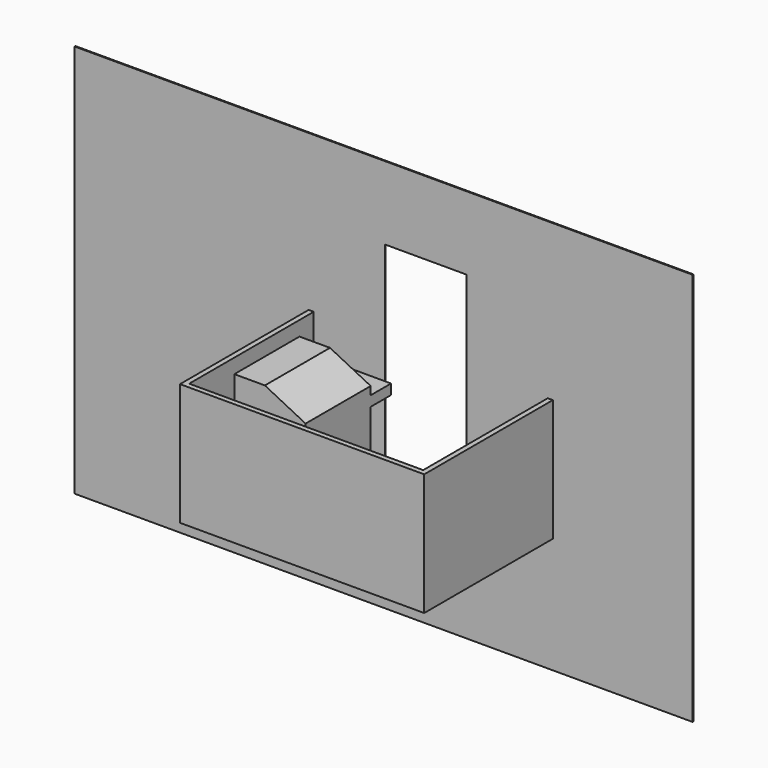
from build123d import *

# Parameters (mm, degrees)
F0_W      = 230
F0_H      = 153
F1_DEPTH  = 1
F3_DEPTH  = 120
F4_W      = 607.133641839
F4_H      = 386.898599565
F5_DEPTH  = 1
F6_W      = 41
F6_H      = 71
F7_DEPTH  = 45
F8_W      = 70
F8_H      = 80
F9_DEPTH  = 113
F11_W     = 70
F11_H     = 10
F12_DEPTH = 65
F13_SIZE2 = 20
F13_SIZE  = 40


with BuildPart() as f1:
    # F0 (on Top) → F1 (new body)
    with BuildSketch(Plane.XY):
        with Locations((-115, 76.5)):
            Rectangle(F0_W, F0_H)
    extrude(amount=F1_DEPTH)

    # F2 (on face) → F3 (join)
    with BuildSketch(Plane(origin=(0, 0, 0), x_dir=(1, 0, 0), z_dir=(0, 0, -1))):
        Polygon((-230, -153), (-230, 0), (0, 0), (0, -153), (5, -153), (5, 5), (-235, 5), (-235, -153), align=None)
    extrude(amount=-F3_DEPTH)

    # F4 (on face) → F5 (join)
    with BuildSketch(Plane(origin=(0, 153, 0), x_dir=(-1, 0, 0), z_dir=(0, 1, 0))):
        with Locations((161.3193079829, 79.6407647431)):
            Rectangle(F4_W, F4_H)
        Polygon((0, 120), (0, 1), (80, 1), (80, 201), (160, 201), (160, 1), (230, 1), (230, 120), (235, 120), (235, 0), (-5, 0), (-5, 120), align=None, mode=Mode.SUBTRACT)
        Polygon((80, 1), (0, 1), (0, 120), (-5, 120), (-5, 0), (235, 0), (235, 120), (230, 120), (230, 1), (160, 1), align=None)
    extrude(amount=F5_DEPTH)


with BuildPart() as f7:
    # F6 (on face) → F7 (new body)
    with BuildSketch(Plane.XY.offset(1)):
        Polygon((-41, 112), (0, 112), (0, 153), (-80, 153), (-81, 153), (-81, 112), align=None)
        with Locations((-20.5, 76.5)):
            Rectangle(F6_W, F6_H)
        Polygon((-121, 41), (-121, 0), (0, 0), (0, 41), (-41, 41), align=None)
    extrude(amount=F7_DEPTH)


with BuildPart() as f9:
    # F8 (on face) → F9 (new body)
    with BuildSketch(Plane.XY.offset(1)):
        with Locations((-185, 83)):
            Rectangle(F8_W, F8_H)
    extrude(amount=F9_DEPTH)

    # F11 (on offset) → F12 (join, symmetric)
    with BuildSketch(Plane(origin=(0, 83, 0), x_dir=(-1, 0, 0), z_dir=(0, 1, 0))):
        with Locations((185, 81)):
            Rectangle(F11_W, F11_H)
    extrude(amount=F12_DEPTH, both=True)

    # F13
    f13_edges = [f9.edges().sort_by_distance(p)[0] for p in [
        (-150, 83, 114),
    ]]
    f13_side = f9.faces().sort_by_distance((-185, 83, 114))[0]
    chamfer(f13_edges, length=F13_SIZE, length2=F13_SIZE2, reference=f13_side)


solid = Compound([f1.part, f7.part, f9.part])
